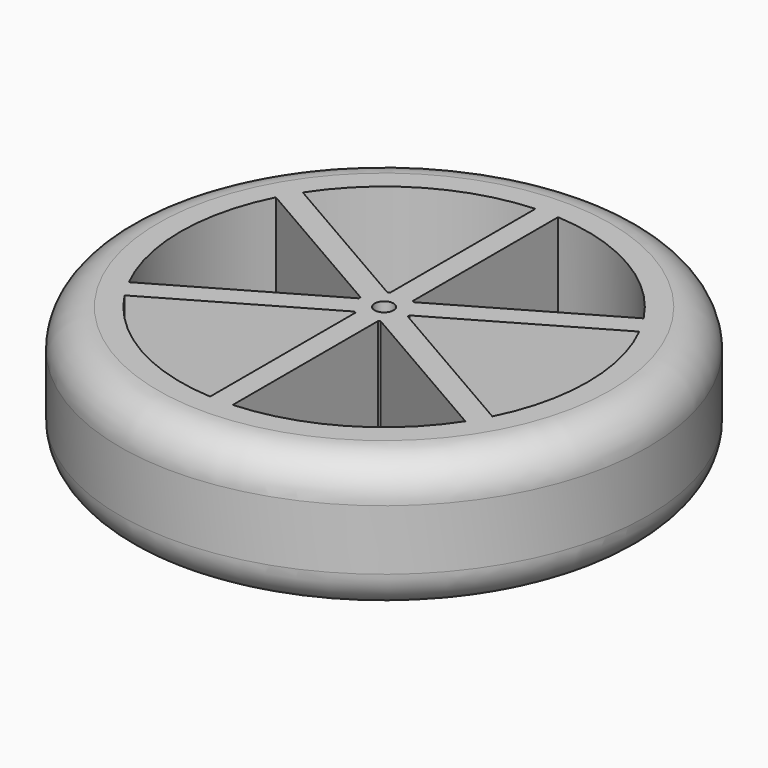
from build123d import *

# Parameters (mm, degrees)
F0_R     = 35
F0_R_2   = 1.25
F1_DEPTH = 18
F2_R     = 5


with BuildPart() as f1:
    # F0 (on Top) → F1 (new body)
    with BuildSketch(Plane.XY):
        Circle(F0_R)
        with BuildLine():
            ThreePointArc((24.0961377645, 12.1809747078), (26.2640031187, 6.2611612484), (27, 0))
            ThreePointArc((27, 0), (26.2640031187, -6.2611612484), (24.0961377645, -12.1809747078))
            ThreePointArc((24.0961377645, -12.1809747078), (23.3826859022, -13.5), (22.5971024221, -14.7773800832))
            ThreePointArc((22.5971024221, -14.7773800832), (13.5, -23.3826859022), (1.4990353424, -26.9583547911))
            ThreePointArc((1.4990353424, -26.9583547911), (0, -27), (-1.4990353424, -26.9583547911))
            ThreePointArc((-1.4990353424, -26.9583547911), (-13.5, -23.3826859022), (-22.5971024221, -14.7773800832))
            ThreePointArc((-22.5971024221, -14.7773800832), (-23.3826859022, -13.5), (-24.0961377645, -12.1809747078))
            ThreePointArc((-24.0961377645, -12.1809747078), (-27, 0), (-24.0961377645, 12.1809747078))
            ThreePointArc((-24.0961377645, 12.1809747078), (-23.3826859022, 13.5), (-22.5971024221, 14.7773800832))
            ThreePointArc((-22.5971024221, 14.7773800832), (-13.5, 23.3826859022), (-1.4990353424, 26.9583547911))
            ThreePointArc((-1.4990353424, 26.9583547911), (0, 27), (1.4990353424, 26.9583547911))
            ThreePointArc((1.4990353424, 26.9583547911), (13.5, 23.3826859022), (22.5971024221, 14.7773800832))
            ThreePointArc((22.5971024221, 14.7773800832), (23.3826859022, 13.5), (24.0961377645, 12.1809747078))
        make_face(mode=Mode.SUBTRACT)
        with BuildLine():
            ThreePointArc((-24.0961377645, -12.1809747078), (-23.3826859022, -13.5), (-22.5971024221, -14.7773800832))
            Line((-22.5971024221, -14.7773800832), (-1.7477898352, -2.7400238488))
            ThreePointArc((-1.7477898352, -2.7400238488), (-2.8145825623, -1.625), (-3.2468251776, -0.1436184734))
            Line((-3.2468251776, -0.1436184734), (-24.0961377645, -12.1809747078))
        make_face()
        with BuildLine():
            Line((-1.7477898352, 2.7400238488), (-22.5971024221, 14.7773800832))
            ThreePointArc((-22.5971024221, 14.7773800832), (-23.3826859022, 13.5), (-24.0961377645, 12.1809747078))
            Line((-24.0961377645, 12.1809747078), (-3.2468251776, 0.1436184734))
            ThreePointArc((-3.2468251776, 0.1436184734), (-2.8145825623, 1.625), (-1.7477898352, 2.7400238488))
        make_face()
        with BuildLine():
            Line((1.4990353424, 2.8836423222), (1.4990353424, 26.9583547911))
            ThreePointArc((1.4990353424, 26.9583547911), (0, 27), (-1.4990353424, 26.9583547911))
            Line((-1.4990353424, 26.9583547911), (-1.4990353424, 2.8836423222))
            ThreePointArc((-1.4990353424, 2.8836423222), (0, 3.25), (1.4990353424, 2.8836423222))
        make_face()
        with BuildLine():
            Line((3.2468251776, 0.1436184734), (24.0961377645, 12.1809747078))
            ThreePointArc((24.0961377645, 12.1809747078), (23.3826859022, 13.5), (22.5971024221, 14.7773800832))
            Line((22.5971024221, 14.7773800832), (1.7477898352, 2.7400238488))
            ThreePointArc((1.7477898352, 2.7400238488), (2.8145825623, 1.625), (3.2468251776, 0.1436184734))
        make_face()
        with BuildLine():
            ThreePointArc((22.5971024221, -14.7773800832), (23.3826859022, -13.5), (24.0961377645, -12.1809747078))
            Line((24.0961377645, -12.1809747078), (3.2468251776, -0.1436184734))
            ThreePointArc((3.2468251776, -0.1436184734), (2.8145825623, -1.625), (1.7477898352, -2.7400238488))
            Line((1.7477898352, -2.7400238488), (22.5971024221, -14.7773800832))
        make_face()
        with BuildLine():
            ThreePointArc((-1.4990353424, -26.9583547911), (0, -27), (1.4990353424, -26.9583547911))
            Line((1.4990353424, -26.9583547911), (1.4990353424, -2.8836423222))
            ThreePointArc((1.4990353424, -2.8836423222), (0, -3.25), (-1.4990353424, -2.8836423222))
            Line((-1.4990353424, -2.8836423222), (-1.4990353424, -26.9583547911))
        make_face()
        with BuildLine():
            ThreePointArc((3.25, 0), (3.2492061975, 0.0718267802), (3.2468251776, 0.1436184734))
            ThreePointArc((3.2468251776, 0.1436184734), (2.8145825623, 1.625), (1.7477898352, 2.7400238488))
            ThreePointArc((1.7477898352, 2.7400238488), (1.625, 2.8145825623), (1.4990353424, 2.8836423222))
            ThreePointArc((1.4990353424, 2.8836423222), (0, 3.25), (-1.4990353424, 2.8836423222))
            ThreePointArc((-1.4990353424, 2.8836423222), (-1.625, 2.8145825623), (-1.7477898352, 2.7400238488))
            ThreePointArc((-1.7477898352, 2.7400238488), (-2.8145825623, 1.625), (-3.2468251776, 0.1436184734))
            ThreePointArc((-3.2468251776, 0.1436184734), (-3.25, 0), (-3.2468251776, -0.1436184734))
            ThreePointArc((-3.2468251776, -0.1436184734), (-2.8145825623, -1.625), (-1.7477898352, -2.7400238488))
            ThreePointArc((-1.7477898352, -2.7400238488), (-1.625, -2.8145825623), (-1.4990353424, -2.8836423222))
            ThreePointArc((-1.4990353424, -2.8836423222), (0, -3.25), (1.4990353424, -2.8836423222))
            ThreePointArc((1.4990353424, -2.8836423222), (1.625, -2.8145825623), (1.7477898352, -2.7400238488))
            ThreePointArc((1.7477898352, -2.7400238488), (2.8145825623, -1.625), (3.2468251776, -0.1436184734))
            ThreePointArc((3.2468251776, -0.1436184734), (3.2492061975, -0.0718267802), (3.25, 0))
        make_face()
        Circle(F0_R_2, mode=Mode.SUBTRACT)
    extrude(amount=F1_DEPTH)

    # F2
    f2_edges = [f1.edges().sort_by_distance(p)[0] for p in [
        (-35, 0, 18),
        (-35, 0, 0),
    ]]
    fillet(f2_edges, radius=F2_R)


solid = f1.part
